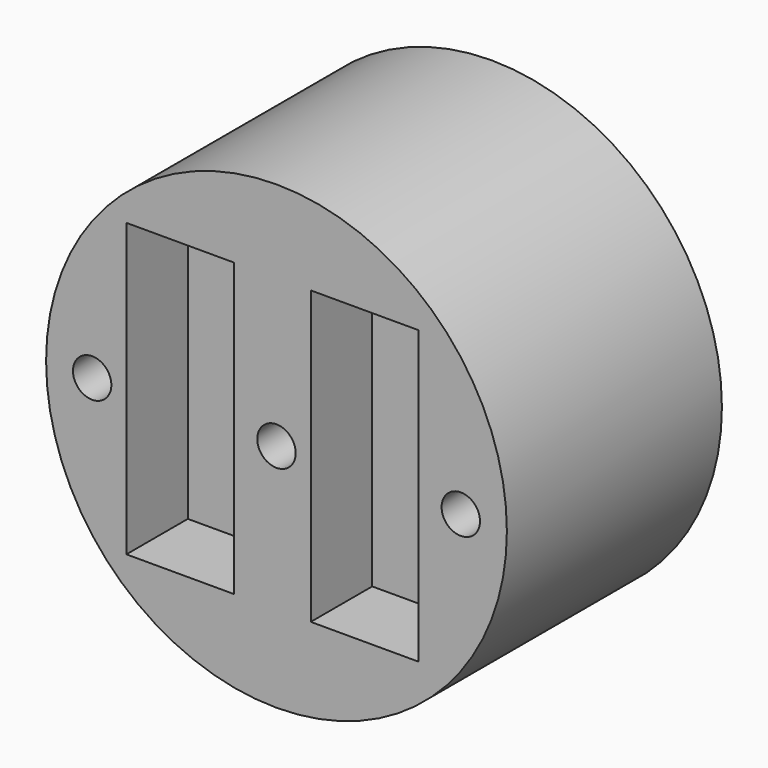
from build123d import *

# Parameters (mm, degrees)
F0_R     = 30
F1_DEPTH = 35
F3_T     = -27.5
F4_W     = 14
F4_H     = 38
F5_DEPTH = 10
F6_R     = 2.5
F7_DEPTH = 5


with BuildPart() as f1:
    # F0 (on Front) → F1 (new body)
    with BuildSketch(Plane.XZ):
        Circle(F0_R)
    extrude(amount=F1_DEPTH)

    # F3
    f3_openings = [f1.faces().sort_by_distance(p)[0] for p in [
        (0, 0, 0),
    ]]
    offset(amount=F3_T, openings=f3_openings)

    # F4 (on face) → F5 (cut)
    with BuildSketch(Plane.XZ.offset(35)):
        with Locations((-12.541194, 0.233546)):
            Rectangle(F4_W, F4_H)
        with Locations((11.464599, 0.298456)):
            Rectangle(F4_W, F4_H)
    extrude(amount=-F5_DEPTH, mode=Mode.SUBTRACT)

    # F6 (on face) → F7 (cut)
    with BuildSketch(Plane.XZ.offset(35)):
        Circle(F6_R)
        with Locations((-24, 0)):
            Circle(F6_R)
        with Locations((24, 0)):
            Circle(F6_R)
    extrude(amount=-F7_DEPTH, mode=Mode.SUBTRACT)


solid = f1.part
